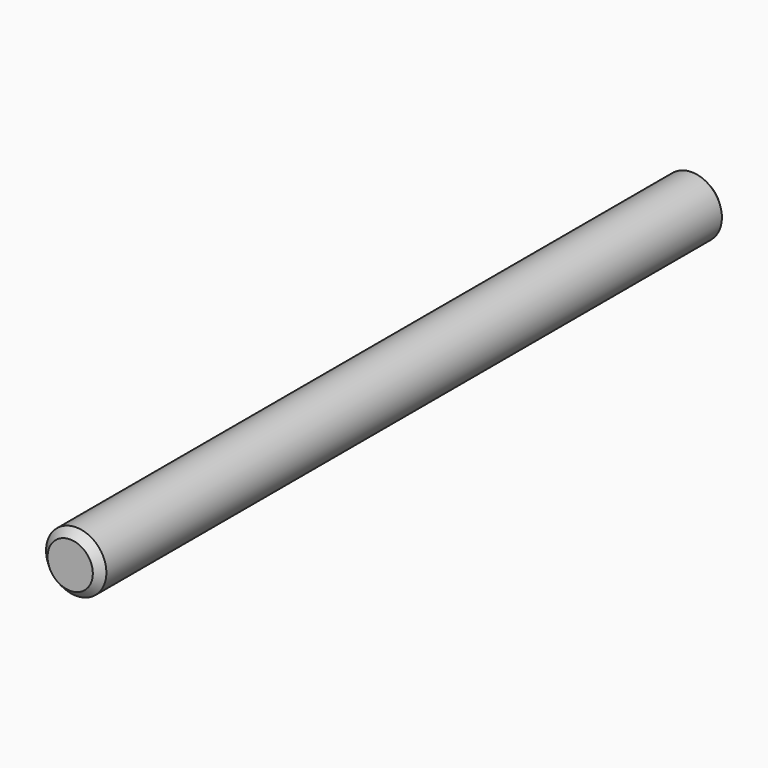
from build123d import *

# Parameters (mm, degrees)
SKETCH_R  = 2.5
PAD_DEPTH = 32.5


with BuildPart() as part:
    # Sketch → Pad (new body, symmetric)
    with BuildSketch(Plane.XZ):
        Circle(SKETCH_R)
    extrude(amount=PAD_DEPTH, both=True)

    # Sketch001 → Groove (revolve, cut)
    with BuildSketch(Plane.YZ):
        Polygon((-32.5, 4.5), (32.5, 4.5), (32.5, 1.875), (31.875, 2.5), (-31.875, 2.5), (-32.5, 1.875), align=None)
    revolve(axis=Axis((0, 0, 0), (0, 1, 0)), mode=Mode.SUBTRACT)


solid = part.part
